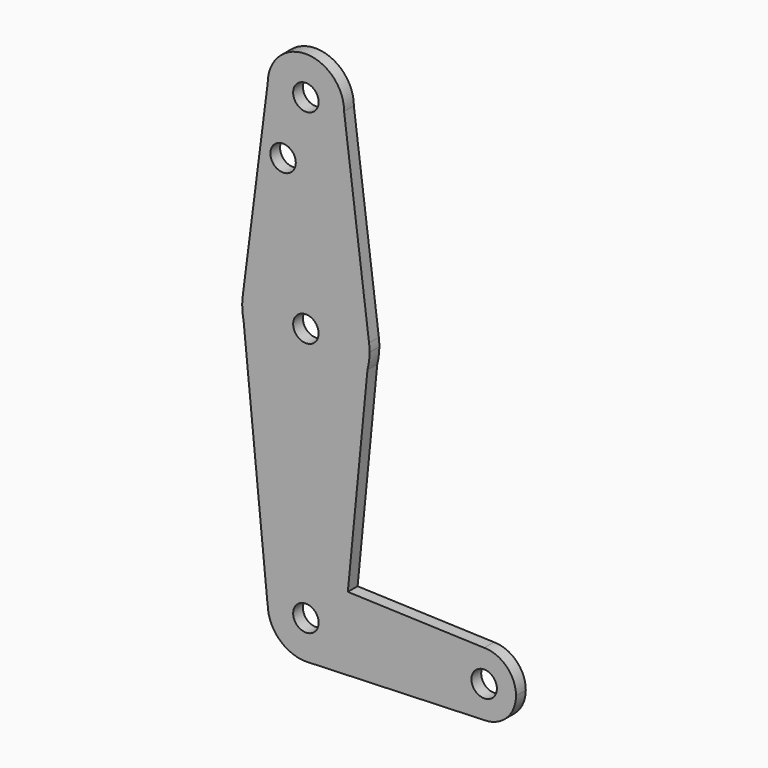
from build123d import *

# Parameters (mm, degrees)
F0_R     = 3.175
F1_DEPTH = 3.048


with BuildPart() as f1:
    # F0 (on Front) → F1 (new body)
    with BuildSketch(Plane.XZ):
        with BuildLine():
            ThreePointArc((-9.525, 114.3), (0, 104.775), (9.525, 114.3))
            ThreePointArc((9.525, 114.3), (0, 123.825), (-9.525, 114.3))
        make_face()
        with Locations((0, 114.3)):
            Circle(F0_R, mode=Mode.SUBTRACT)
        with BuildLine():
            Line((15.7474569047, 65.5082893304), (9.525, 114.3))
            ThreePointArc((9.525, 114.3), (0, 104.775), (-9.525, 114.3))
            Line((-9.525, 114.3), (-15.7474569047, 65.5082893304))
            ThreePointArc((-15.7474569047, 65.5082893304), (0, 79.375), (15.7474569047, 65.5082893304))
        make_face()
        with Locations((-5.6910331437, 99.111713469)):
            Circle(F0_R, mode=Mode.SUBTRACT)
        with BuildLine():
            ThreePointArc((15.875, 63.5), (15.8430821396, 64.5061676396), (15.7474569047, 65.5082893304))
            ThreePointArc((15.7474569047, 65.5082893304), (0, 79.375), (-15.7474569047, 65.5082893304))
            ThreePointArc((-15.7474569047, 65.5082893304), (-15.8364676267, 64.6054040472), (-15.8737538243, 63.6989083315))
            Line((-15.8737538243, 63.6989083315), (-15.5270203983, 60.1943589802))
            ThreePointArc((-15.5270203983, 60.1943589802), (-0.3708563139, 47.6293323835), (15.355668847, 59.4727106808))
            ThreePointArc((15.355668847, 59.4727106808), (15.7446319097, 61.469682038), (15.875, 63.5))
        make_face()
        with Locations((0, 63.5)):
            Circle(F0_R, mode=Mode.SUBTRACT)
        with BuildLine():
            Line((-15.5270203983, 60.1943589802), (-15.8737538243, 63.6989083315))
            ThreePointArc((-15.8737538243, 63.6989083315), (-15.7978676404, 61.9369891183), (-15.5270203983, 60.1943589802))
        make_face()
        with BuildLine():
            Line((10.4607004757, 9.1560829712), (15.355668847, 59.4727106808))
            ThreePointArc((15.355668847, 59.4727106808), (-0.3708563139, 47.6293323835), (-15.5270203983, 60.1943589802))
            Line((-15.5270203983, 60.1943589802), (-9.5715053729, 0))
            Line((-9.5715053729, 0), (-9.525, 0))
            ThreePointArc((-9.525, 0), (-6.6134341249, 6.8547876755), (0.3412706722, 9.5188843531))
            Line((0.3412706722, 9.5188843531), (10.4607004757, 9.1560829712))
        make_face()
        with BuildLine():
            Line((9.5699663667, 0), (10.4607004757, 9.1560829712))
            Line((10.4607004757, 9.1560829712), (0.3412706722, 9.5188843531))
            ThreePointArc((0.3412706722, 9.5188843531), (6.8547876755, 6.6134341249), (9.525, 0))
            Line((9.525, 0), (9.5699663667, 0))
        make_face()
        with BuildLine():
            Line((44.45, 7.9375), (10.4607004757, 9.1560829712))
            Line((10.4607004757, 9.1560829712), (9.5699663667, 0))
            Line((9.5699663667, 0), (9.525, 0))
            ThreePointArc((9.525, 0), (6.8547876358, -6.613434166), (0.3412705579, -9.5188843572))
            Line((0.3412705579, -9.5188843572), (44.45, -7.9375))
            ThreePointArc((44.45, -7.9375), (36.5125, 0), (44.45, 7.9375))
        make_face()
        with BuildLine():
            ThreePointArc((52.3875, 0), (50.0626600757, 5.6126600757), (44.45, 7.9375))
            ThreePointArc((44.45, 7.9375), (36.5125, 0), (44.45, -7.9375))
            ThreePointArc((44.45, -7.9375), (50.0626600757, -5.6126600757), (52.3875, 0))
        make_face()
        with Locations((44.45, 0)):
            Circle(F0_R, mode=Mode.SUBTRACT)
        with BuildLine():
            ThreePointArc((9.525, 0), (6.8547876755, 6.6134341249), (0.3412706722, 9.5188843531))
            ThreePointArc((0.3412706722, 9.5188843531), (-6.6134341249, 6.8547876755), (-9.525, 0))
            Line((-9.525, 0), (-3.175, 0))
            ThreePointArc((-3.175, 0), (0, 3.175), (3.175, 0))
            Line((3.175, 0), (9.525, 0))
        make_face()
        with BuildLine():
            Line((-3.175, 0), (-9.525, 0))
            ThreePointArc((-9.525, 0), (-6.613434166, -6.8547876358), (0.3412705579, -9.5188843572))
            ThreePointArc((0.3412705579, -9.5188843572), (6.8547876358, -6.613434166), (9.525, 0))
            Line((9.525, 0), (3.175, 0))
            ThreePointArc((3.175, 0), (0, -3.175), (-3.175, 0))
        make_face()
    extrude(amount=F1_DEPTH)


solid = f1.part
